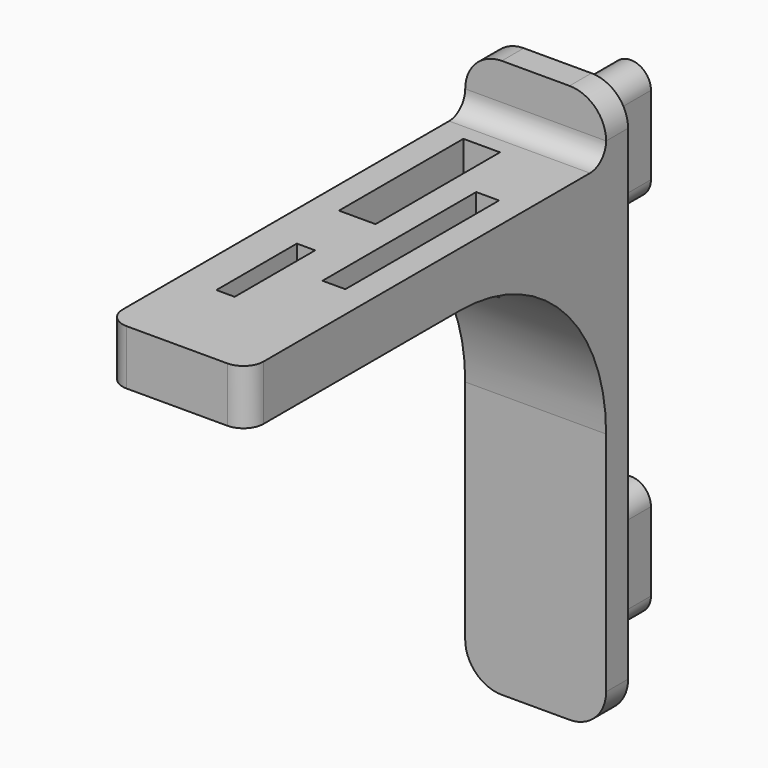
from build123d import *

# Parameters (mm, degrees)
SKETCH_W      = 15.4
SKETCH_H      = 61
PAD_DEPTH     = 3
FILLET_R      = 4
PAD001_DEPTH  = 5
PAD002_DEPTH  = 5
SKETCH003_W   = 15.4
SKETCH003_H   = 6
PAD003_DEPTH  = 49
FILLET001_R   = 2.2
FILLET002_R   = 20
FILLET003_R   = 2.2
SKETCH004_W   = 4
SKETCH004_H   = 17
SKETCH004_W_2 = 2
SKETCH004_H_2 = 11
SKETCH004_W_3 = 2.5
SKETCH004_H_3 = 21
POCKET_DEPTH  = 54.801


with BuildPart() as part:
    # Sketch → Pad (new body)
    with BuildSketch(Plane.XZ):
        Rectangle(SKETCH_W, SKETCH_H)
    extrude(amount=PAD_DEPTH)

    # Fillet
    fillet_edges = [part.edges().sort_by_distance(p)[0] for p in [
        (7.7, -1.5, 30.5),
        (-7.7, -1.5, 30.5),
        (7.7, -1.5, -30.5),
        (-7.7, -1.5, -30.5),
    ]]
    fillet(fillet_edges, radius=FILLET_R)

    # Sketch001 (on Face2 of Fillet) → Pad001 (join)
    with BuildSketch(Plane(origin=(0, 0, 0), x_dir=(1, 0, 0), z_dir=(0, 1, 0))):
        with BuildLine():
            Line((-2.2, 17.86), (-2.2, 15.76))
            ThreePointArc((-2.2, 15.76), (0, 13.56), (2.2, 15.76))
            Line((2.2, 17.86), (2.2, 15.76))
            ThreePointArc((2.2, 17.86), (0, 20.06), (-2.2, 17.86))
        make_face()
        with BuildLine():
            Line((-2.2, -22.2), (-2.2, -24.3))
            ThreePointArc((-2.2, -24.3), (0, -26.5), (2.2, -24.3))
            Line((2.2, -22.2), (2.2, -24.3))
            ThreePointArc((2.2, -22.2), (0, -20), (-2.2, -22.2))
        make_face()
    extrude(amount=PAD001_DEPTH)

    # Sketch002 (on Face19 of Pad001) → Pad002 (join)
    with BuildSketch(Plane(origin=(0, 5, 0), x_dir=(1, 0, 0), z_dir=(0, 1, 0))):
        with BuildLine():
            Line((-2.2, 24.36), (-2.2, 15.76))
            ThreePointArc((-2.2, 15.76), (0, 13.56), (2.2, 15.76))
            Line((2.2, 24.36), (2.2, 15.76))
            ThreePointArc((2.2, 24.36), (0, 26.56), (-2.2, 24.36))
        make_face()
        with BuildLine():
            Line((-2.2, -15.7), (-2.2, -24.3))
            ThreePointArc((-2.2, -24.3), (0, -26.5), (2.2, -24.3))
            Line((2.2, -15.7), (2.2, -24.3))
            ThreePointArc((2.2, -15.7), (0, -13.5), (-2.2, -15.7))
        make_face()
    extrude(amount=PAD002_DEPTH)

    # Sketch003 (on Face5 of Pad002) → Pad003 (join)
    with BuildSketch(Plane.XZ.offset(3)):
        with Locations((0, 21.3)):
            Rectangle(SKETCH003_W, SKETCH003_H)
    extrude(amount=PAD003_DEPTH)

    # Fillet001
    fillet001_edges = [part.edges().sort_by_distance(p)[0] for p in [
        (7.7, -52, 21.3),
        (-7.7, -52, 21.3),
    ]]
    fillet(fillet001_edges, radius=FILLET001_R)

    # Fillet002
    fillet002_edges = [part.edges().sort_by_distance(p)[0] for p in [
        (0, -3, 18.3),
    ]]
    fillet(fillet002_edges, radius=FILLET002_R)

    # Fillet003
    fillet003_edges = [part.edges().sort_by_distance(p)[0] for p in [
        (0, -3, 24.3),
    ]]
    fillet(fillet003_edges, radius=FILLET003_R)

    # Sketch004 (on Face2 of Fillet003) → Pocket (cut, through all)
    with BuildSketch(Plane(origin=(0, 0, 24.3), x_dir=(-1, 0, 0), z_dir=(0, 0, 1))):
        with Locations((2.7, 15.5)):
            Rectangle(SKETCH004_W, SKETCH004_H)
        with Locations((2.7, 36.5)):
            Rectangle(SKETCH004_W_2, SKETCH004_H_2)
        with Locations((-3.55, 24.5)):
            Rectangle(SKETCH004_W_3, SKETCH004_H_3)
    extrude(amount=-POCKET_DEPTH, mode=Mode.SUBTRACT)


solid = part.part
